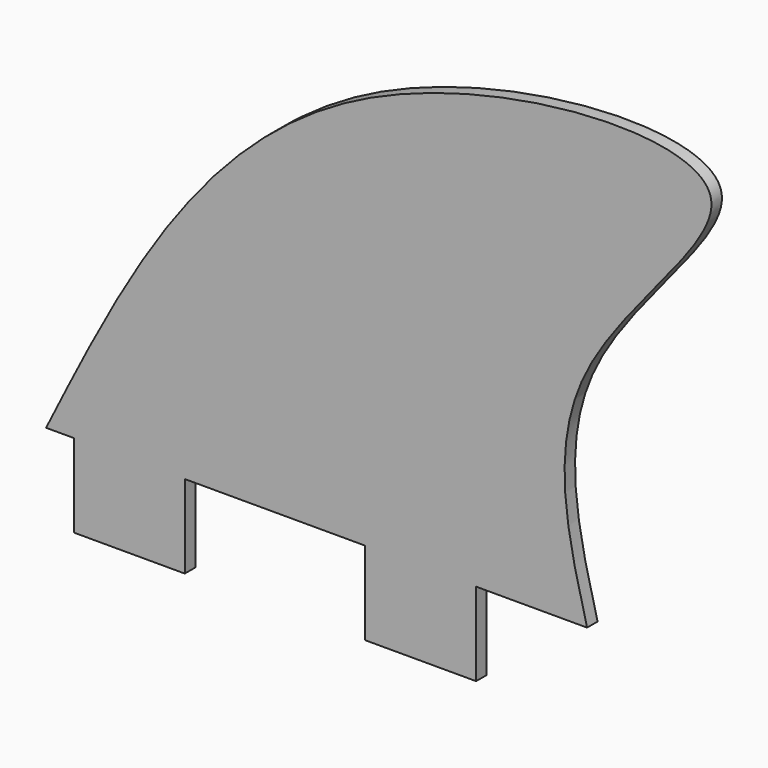
from build123d import *

# Parameters (mm, degrees)
F1_DEPTH = 6
F2_DEPTH = 3.0535180122


with BuildPart() as f1:
    # F0 (on Front) → F1 (new body)
    with BuildSketch(Plane.XZ):
        with BuildLine():
            add(Edge.make_bspline(
                [(101.6, -103.6673732071), (92.6739275308, -69.3713613541), (74.7319829597, -0.4342794118), (220.4667490361, 115.9675104329), (-44.6074735149, 99.853775851), (-110.1565016256, -31.6552807755), (-146.05, -103.6673732071)],
                knots=[0, 0, 0, 0, 0.2109068868, 0.4239356289, 0.6845573929, 1, 1, 1, 1], degree=3))
            Line((-146.05, -103.6673732071), (-133.35, -103.6673732071))
            Line((-133.35, -103.6673732071), (-133.35, -141.7673732071))
            Line((-133.35, -141.7673732071), (-82.55, -141.7673732071))
            Line((-82.55, -141.7673732071), (-82.55, -103.6673732071))
            Line((-82.55, -103.6673732071), (0, -103.6673732071))
            Line((0, -103.6673732071), (0, -141.7673732071))
            Line((0, -141.7673732071), (50.8, -141.7673732071))
            Line((50.8, -141.7673732071), (50.8, -103.6673732071))
            Line((50.8, -103.6673732071), (101.6, -103.6673732071))
        make_face()
    extrude(amount=F1_DEPTH)

    # F0 (on Front) → F2 (join)
    with BuildSketch(Plane.XZ):
        with BuildLine():
            add(Edge.make_bspline(
                [(101.6, -103.6673732071), (92.6739275308, -69.3713613541), (74.7319829597, -0.4342794118), (220.4667490361, 115.9675104329), (-44.6074735149, 99.853775851), (-110.1565016256, -31.6552807755), (-146.05, -103.6673732071)],
                knots=[0, 0, 0, 0, 0.2109068868, 0.4239356289, 0.6845573929, 1, 1, 1, 1], degree=3))
            Line((-146.05, -103.6673732071), (-133.35, -103.6673732071))
            Line((-133.35, -103.6673732071), (-133.35, -141.7673732071))
            Line((-133.35, -141.7673732071), (-82.55, -141.7673732071))
            Line((-82.55, -141.7673732071), (-82.55, -103.6673732071))
            Line((-82.55, -103.6673732071), (0, -103.6673732071))
            Line((0, -103.6673732071), (0, -141.7673732071))
            Line((0, -141.7673732071), (50.8, -141.7673732071))
            Line((50.8, -141.7673732071), (50.8, -103.6673732071))
            Line((50.8, -103.6673732071), (101.6, -103.6673732071))
        make_face()
    extrude(amount=F2_DEPTH)


solid = f1.part
